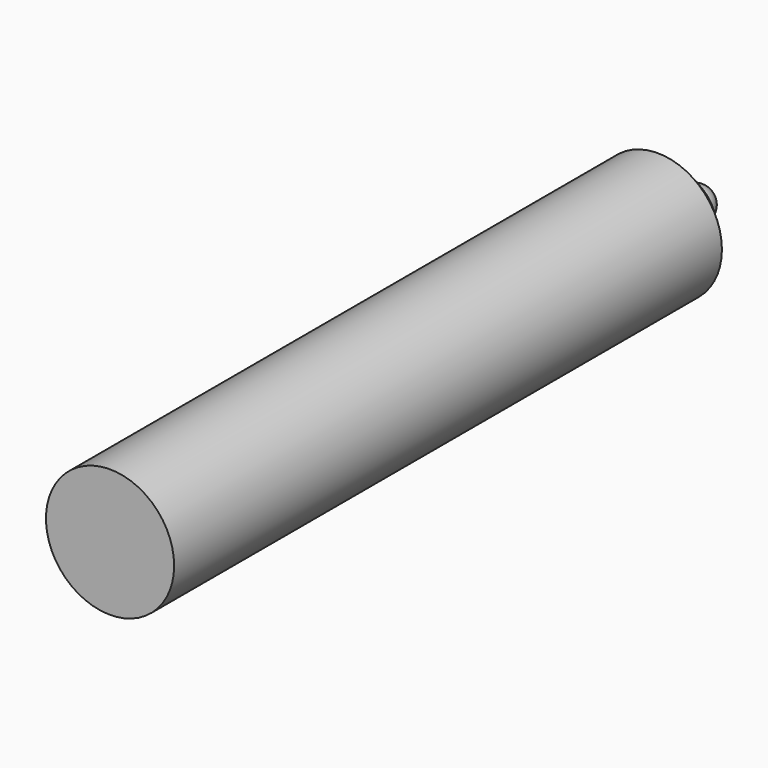
from build123d import *

# Parameters (mm, degrees)
F0_R     = 18.25
F1_DEPTH = 203
F2_R     = 5
F3_DEPTH = 10
F4_R     = 5
F5_SIZE  = 8


with BuildPart() as f1:
    # F0 (on Front) → F1 (new body)
    with BuildSketch(Plane.XZ):
        Circle(F0_R)
    extrude(amount=F1_DEPTH)

    # F2 (on Front) → F3 (join)
    with BuildSketch(Plane.XZ):
        Circle(F2_R)
    extrude(amount=-F3_DEPTH)

    # F4
    f4_edges = [f1.edges().sort_by_distance(p)[0] for p in [
        (-5, 10, 0),
    ]]
    fillet(f4_edges, radius=F4_R)

    # F5
    f5_edges = [f1.edges().sort_by_distance(p)[0] for p in [
        (-18.25, 0, 0),
    ]]
    chamfer(f5_edges, length=F5_SIZE)


solid = f1.part
